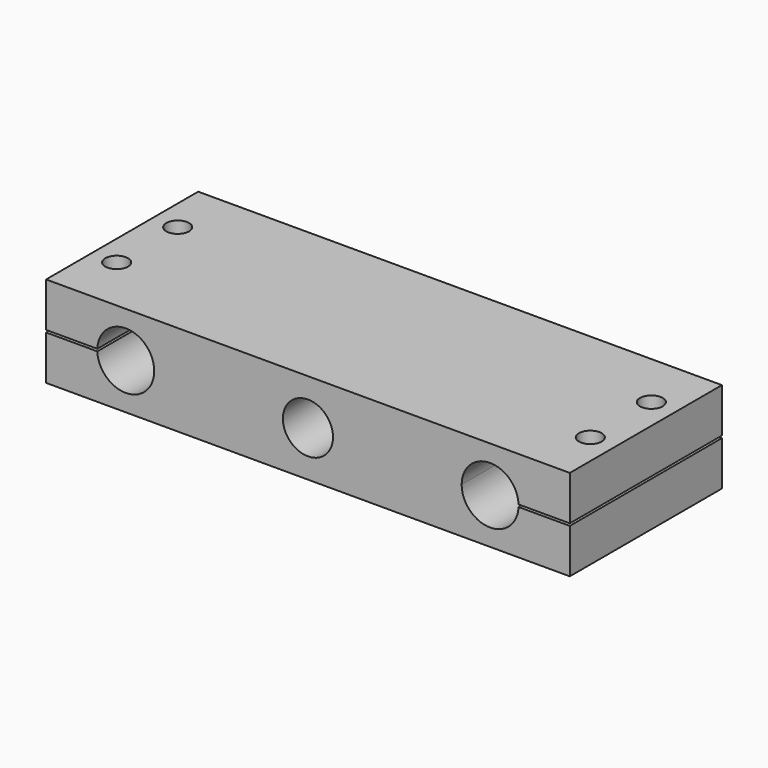
from build123d import *

# Parameters (mm, degrees)
F0_W            = 230
F0_H            = 40
F1_DEPTH        = 83.5
F3_DEPTH        = 83.501
F4_R            = 11
F5_DEPTH        = 25
F6_R            = 11
F7_DEPTH        = 25
F8_W            = 26.2972414494
F8_H            = 0.5
F8_W_2          = 31.4752864838
F9_DEPTH        = 83.501
F11_D           = 8.8
F11_DEPTH       = 30
F11_CBORE_D     = 10
F11_CBORE_DEPTH = 20
F11_TIP         = 2.6437867237


with BuildPart() as f1:
    # F0 (on Front) → F1 (new body)
    with BuildSketch(Plane.XZ):
        with Locations((115, 20)):
            Rectangle(F0_W, F0_H)
    extrude(amount=F1_DEPTH)

    # F2 (on face) → F3 (cut, through all)
    with BuildSketch(Plane.XZ.offset(83.5)):
        with BuildLine():
            Line((22.5, 20), (35, 20))
            Line((35, 20), (47.5, 20))
            ThreePointArc((47.5, 20), (35, 32.5), (22.5, 20))
        make_face()
        with BuildLine():
            Line((47.5, 20), (35, 20))
            Line((35, 20), (22.5, 20))
            ThreePointArc((22.5, 20), (35, 7.5), (47.5, 20))
        make_face()
        with BuildLine():
            ThreePointArc((207.5, 20), (195, 32.5), (182.5, 20))
            Line((182.5, 20), (195, 20))
            Line((195, 20), (207.5, 20))
        make_face()
        with BuildLine():
            Line((195, 20), (182.5, 20))
            ThreePointArc((182.5, 20), (195, 7.5), (207.5, 20))
            Line((207.5, 20), (195, 20))
        make_face()
        with BuildLine():
            ThreePointArc((115, 28.5), (108.9895923599, 26.0104076401), (106.5, 20))
            Line((106.5, 20), (115, 20))
            Line((115, 20), (115, 28.5))
        make_face()
        with BuildLine():
            Line((115, 20), (106.5, 20))
            ThreePointArc((106.5, 20), (108.9895923599, 13.9895923599), (115, 11.5))
            Line((115, 11.5), (115, 20))
        make_face()
        with BuildLine():
            Line((115, 28.5), (115, 20))
            Line((115, 20), (123.5, 20))
            ThreePointArc((123.5, 20), (121.0104076401, 26.0104076401), (115, 28.5))
        make_face()
        with BuildLine():
            Line((123.5, 20), (115, 20))
            Line((115, 20), (115, 11.5))
            ThreePointArc((115, 11.5), (121.0104076401, 13.9895923599), (123.5, 20))
        make_face()
    extrude(amount=-F3_DEPTH, mode=Mode.SUBTRACT)

    # F4 (on face) → F5 (cut)
    with BuildSketch(Plane.XZ.offset(83.5)):
        with Locations((115, 20)):
            Circle(F4_R)
    extrude(amount=-F5_DEPTH, mode=Mode.SUBTRACT)

    # F6 (on face) → F7 (cut)
    with BuildSketch(Plane(origin=(0, 0, 0), x_dir=(-1, 0, 0), z_dir=(0, 1, 0))):
        with Locations((-115, 20)):
            Circle(F6_R)
    extrude(amount=-F7_DEPTH, mode=Mode.SUBTRACT)

    # F8 (on face) → F9 (cut, through all)
    with BuildSketch(Plane.XZ.offset(83.5)):
        with Locations((13.1486207247, 20.25)):
            Rectangle(F8_W, F8_H)
        with Locations((13.1486207247, 19.75)):
            Rectangle(F8_W, F8_H)
        with Locations((214.2623567581, 19.75)):
            Rectangle(F8_W_2, F8_H)
        with Locations((214.2623567581, 20.25)):
            Rectangle(F8_W_2, F8_H)
    extrude(amount=-F9_DEPTH, mode=Mode.SUBTRACT)

    # F11
    with Locations(Plane.XY.offset(40)):
        with Locations((11, -25), (11, -58.5), (219, -25), (219, -58.5)):
            CounterBoreHole(F11_D / 2, F11_CBORE_D / 2, F11_CBORE_DEPTH, depth=F11_DEPTH)
            with Locations((0, 0, -(F11_DEPTH + F11_TIP / 2))):  # 118° drill point
                Cone(0, F11_D / 2, F11_TIP, mode=Mode.SUBTRACT)


solid = f1.part
